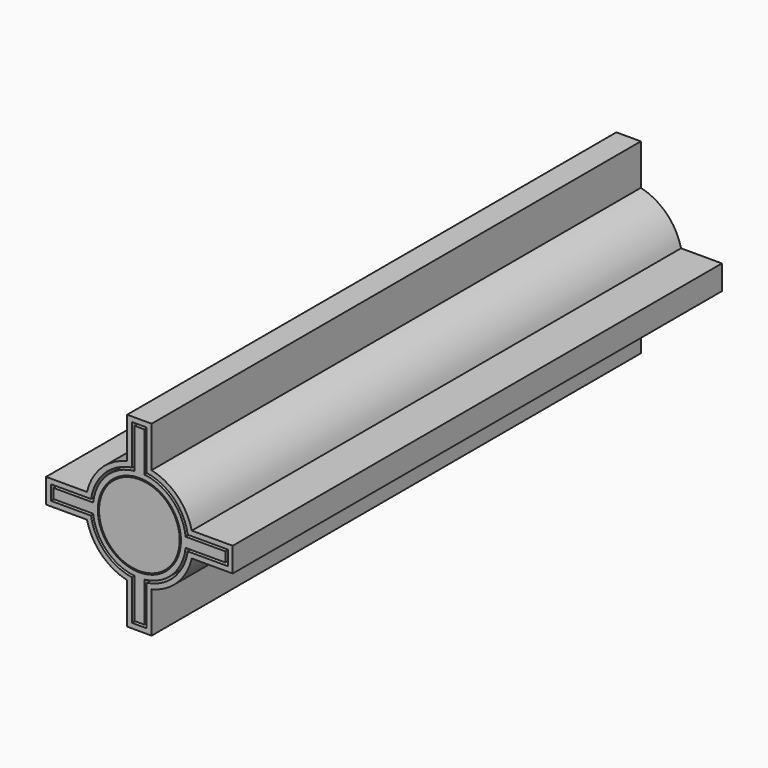
from build123d import *

# Parameters (mm, degrees)
F0_R     = 6.6
F1_DEPTH = 100
F0_R_2   = 6.8
F2_DEPTH = 100
F3_DEPTH = 100


with BuildPart() as f1:
    # F0 (on Front) → F1 (new body)
    with BuildSketch(Plane.XZ):
        Circle(F0_R)
    extrude(amount=-F1_DEPTH)


with BuildPart() as f2:
    # F0 (on Front) → F2 (new body)
    with BuildSketch(Plane.XZ):
        with BuildLine():
            ThreePointArc((7.557777, -0.8), (7.589437, -0.400557), (7.6, 0))
            ThreePointArc((7.6, 0), (7.589437, 0.400557), (7.557777, 0.8))
            ThreePointArc((7.557777, 0.8), (5.374012, 5.374012), (0.8, 7.557777))
            ThreePointArc((0.8, 7.557777), (0, 7.6), (-0.8, 7.557777))
            ThreePointArc((-0.8, 7.557777), (-5.374012, 5.374012), (-7.557777, 0.8))
            ThreePointArc((-7.557777, 0.8), (-7.6, 0), (-7.557777, -0.8))
            ThreePointArc((-7.557777, -0.8), (-5.374012, -5.374012), (-0.8, -7.557777))
            ThreePointArc((-0.8, -7.557777), (0, -7.6), (0.8, -7.557777))
            ThreePointArc((0.8, -7.557777), (5.374012, -5.374012), (7.557777, -0.8))
        make_face()
        Circle(F0_R_2, mode=Mode.SUBTRACT)
        with BuildLine():
            ThreePointArc((-0.8, 7.557777), (0, 7.6), (0.8, 7.557777))
            Line((0.8, 7.557777), (0.8, 14.057777))
            Line((0.8, 14.057777), (-0.8, 14.057777))
            Line((-0.8, 14.057777), (-0.8, 7.557777))
        make_face()
        with BuildLine():
            ThreePointArc((7.557777, 0.8), (7.589437, 0.400557), (7.6, 0))
            ThreePointArc((7.6, 0), (7.589437, -0.400557), (7.557777, -0.8))
            Line((7.557777, -0.8), (14.057777, -0.8))
            Line((14.057777, -0.8), (14.057777, 0.8))
            Line((14.057777, 0.8), (7.557777, 0.8))
        make_face()
        with BuildLine():
            ThreePointArc((-7.557777, -0.8), (-7.6, 0), (-7.557777, 0.8))
            Line((-7.557777, 0.8), (-14.057777, 0.8))
            Line((-14.057777, 0.8), (-14.057777, -0.8))
            Line((-14.057777, -0.8), (-7.557777, -0.8))
        make_face()
        with BuildLine():
            Line((0.8, -14.057777), (0.8, -7.557777))
            ThreePointArc((0.8, -7.557777), (0, -7.6), (-0.8, -7.557777))
            Line((-0.8, -7.557777), (-0.8, -14.057777))
            Line((-0.8, -14.057777), (0.8, -14.057777))
        make_face()
    extrude(amount=-F2_DEPTH)


with BuildPart() as f3:
    # F0 (on Front) → F3 (new body)
    with BuildSketch(Plane.XZ):
        with BuildLine():
            ThreePointArc((-2, 8.569714), (-6.22254, 6.22254), (-8.569714, 2))
            Line((-8.569714, 2), (-15.257777, 2))
            Line((-15.257777, 2), (-15.257777, -2))
            Line((-15.257777, -2), (-8.569714, -2))
            ThreePointArc((-8.569714, -2), (-6.22254, -6.22254), (-2, -8.569714))
            Line((-2, -8.569714), (-2, -15.257777))
            Line((-2, -15.257777), (2, -15.257777))
            Line((2, -15.257777), (2, -8.569714))
            ThreePointArc((2, -8.569714), (6.22254, -6.22254), (8.569714, -2))
            Line((8.569714, -2), (15.257777, -2))
            Line((15.257777, -2), (15.257777, 2))
            Line((15.257777, 2), (8.569714, 2))
            ThreePointArc((8.569714, 2), (6.22254, 6.22254), (2, 8.569714))
            Line((2, 8.569714), (2, 15.257777))
            Line((2, 15.257777), (-2, 15.257777))
            Line((-2, 15.257777), (-2, 8.569714))
        make_face()
        with BuildLine():
            Line((-7.909488, -1.2), (-14.457777, -1.2))
            Line((-14.457777, -1.2), (-14.457777, 1.2))
            Line((-14.457777, 1.2), (-7.909488, 1.2))
            ThreePointArc((-7.909488, 1.2), (-5.656854, 5.656854), (-1.2, 7.909488))
            Line((-1.2, 7.909488), (-1.2, 14.457777))
            Line((-1.2, 14.457777), (1.2, 14.457777))
            Line((1.2, 14.457777), (1.2, 7.909488))
            ThreePointArc((1.2, 7.909488), (5.656854, 5.656854), (7.909488, 1.2))
            Line((7.909488, 1.2), (14.457777, 1.2))
            Line((14.457777, 1.2), (14.457777, -1.2))
            Line((14.457777, -1.2), (7.909488, -1.2))
            ThreePointArc((7.909488, -1.2), (5.656854, -5.656854), (1.2, -7.909488))
            Line((1.2, -7.909488), (1.2, -14.457777))
            Line((1.2, -14.457777), (-1.2, -14.457777))
            Line((-1.2, -14.457777), (-1.2, -7.909488))
            ThreePointArc((-1.2, -7.909488), (-5.656854, -5.656854), (-7.909488, -1.2))
        make_face(mode=Mode.SUBTRACT)
    extrude(amount=-F3_DEPTH)


solid = Compound([f1.part, f2.part, f3.part])
